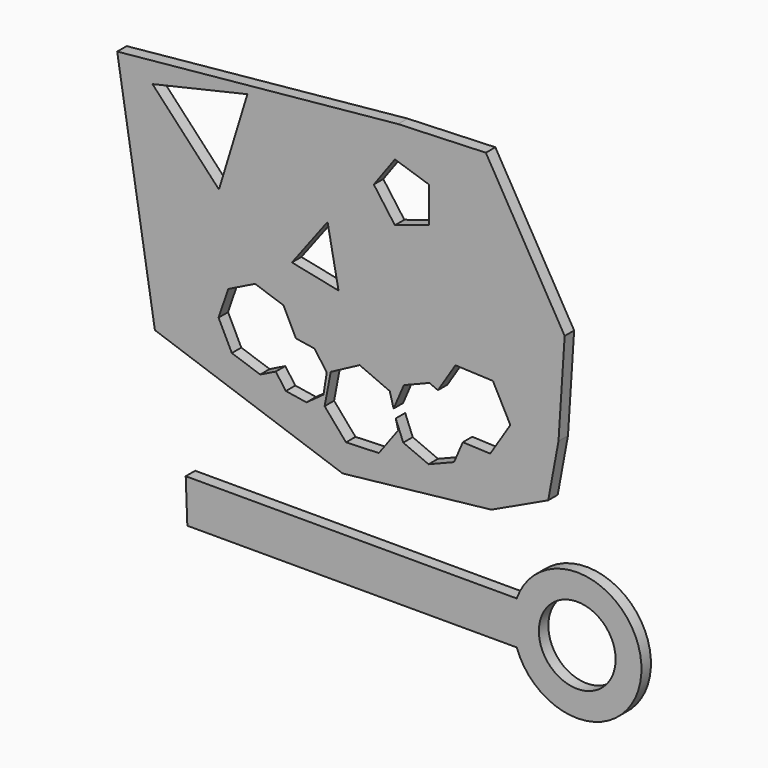
from build123d import *

# Parameters (mm, degrees)
F0_R     = 9.713783
F1_DEPTH = 3


with BuildPart() as f1:
    # F0 (on Front) → F1 (new body)
    with BuildSketch(Plane.XZ):
        Polygon((9.359013, 50.074677), (-61.751101, 43.104354), (-52.210905, -15.871422), (-4.68337, -32.349944), (32.957047, -28.186951), (47.354076, -21.422081), (49.955949, -7.371972), (51.517073, 16.565254), (31.569384, 50.90997), align=None)
        Polygon((-19.650957, 0.252964), (-16.523882, -6.095946), (-11.817468, -6.841368), (-8.700382, -11.131669), (-9.52997, -16.369483), (-13.820271, -19.486569), (-19.058085, -18.656981), (-21.605504, -15.150759), (-25.548534, -17.092848), (-32.733405, -14.649991), (-36.086515, -7.84216), (-33.643659, -0.657289), (-26.835827, 2.695821), align=None, mode=Mode.SUBTRACT)
        Polygon((-0.359567, -6.808609), (7.250806, -10.127254), (8.210497, -13.706142), (10.816917, -7.624497), (17.283304, -5.037943), (19.433067, -5.959271), (23.867252, 1.040298), (33.355706, 0.650243), (37.762135, -7.762027), (32.680111, -15.784241), (25.735128, -15.498744), (23.527797, -20.649182), (17.06141, -23.235736), (10.660015, -20.49228), (8.749334, -15.715578), (9.401175, -18.146425), (4.472267, -24.827523), (-3.824349, -25.139544), (-9.241152, -18.84753), (-7.699179, -10.689496), align=None, mode=Mode.SUBTRACT)
        Polygon((-5.724119, 8.065804), (-17.519275, 10.494218), (-8.49945, 22.462832), align=None, mode=Mode.SUBTRACT)
        Polygon((-28.794058, 44.318561), (-35.993011, 20.734928), (-52.817559, 38.761221), align=None, mode=Mode.SUBTRACT)
        Polygon((8.54268, 41.945745), (17.172357, 39.141793), (17.172357, 30.068014), (8.54268, 27.264062), (3.209247, 34.604903), align=None, mode=Mode.SUBTRACT)
        with BuildLine():
            Line((39.375, -45.879681), (-44.405285, -45.879681))
            Line((-44.405285, -45.879681), (-43.995133, -56.785595))
            Line((-43.995133, -56.785595), (39.375, -56.785595))
            ThreePointArc((39.375, -56.785595), (70.955485, -51.332638), (39.375, -45.879681))
        make_face()
        with Locations((54.694465, -51.332638)):
            Circle(F0_R, mode=Mode.SUBTRACT)
    extrude(amount=F1_DEPTH)


solid = f1.part
